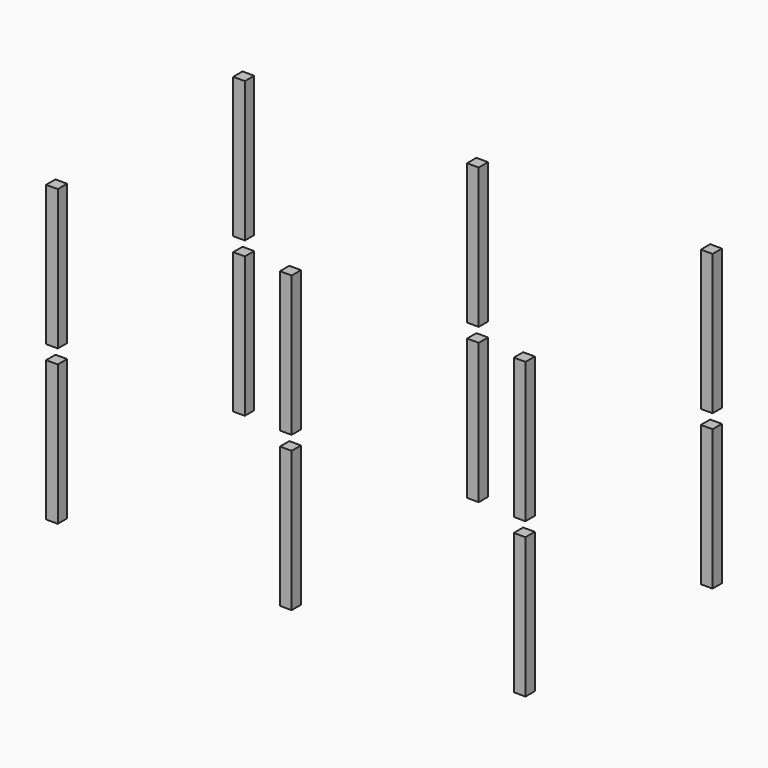
from build123d import *

# Parameters (mm, degrees)
SKETCH001_W             = 250
SKETCH001_H             = 250
EXTRUDE_SKETCH001_DEPTH = 3000
ARRAY001_X_COUNT        = 3
ARRAY001_X_PITCH        = 5000
ARRAY001_Y_COUNT        = 2
ARRAY001_Y_PITCH        = 5000
ARRAY001_Z_COUNT        = 2
ARRAY001_Z_PITCH        = 3300


with BuildPart() as part:
    # Sketch001 → Extrude_Sketch001 (new body)
    with BuildSketch(Plane.XY.offset(600)):
        with Locations((500, 500)):
            Rectangle(SKETCH001_W, SKETCH001_H)
    extrude(amount=EXTRUDE_SKETCH001_DEPTH)


with BuildPart() as part_1:
    # Extrude_Sketch001 placement: moved
    add(part.part.moved(Location((0, 0, 300))))

    # Array001 X: part ×3


with BuildPart() as part_2:
    add(part_1.part)
    with Locations(*[(i * ARRAY001_X_PITCH, 0, 0) for i in range(1, ARRAY001_X_COUNT)]):
        add(part_1.part)

    # Array001 Y: part ×2


with BuildPart() as part_3:
    add(part_2.part)
    with Locations(*[(0, i * ARRAY001_Y_PITCH, 0) for i in range(1, ARRAY001_Y_COUNT)]):
        add(part_2.part)

    # Array001 Z: part ×2


with BuildPart() as part_4:
    add(part_3.part)
    with Locations(*[(0, 0, i * ARRAY001_Z_PITCH) for i in range(1, ARRAY001_Z_COUNT)]):
        add(part_3.part)


solid = part_4.part
